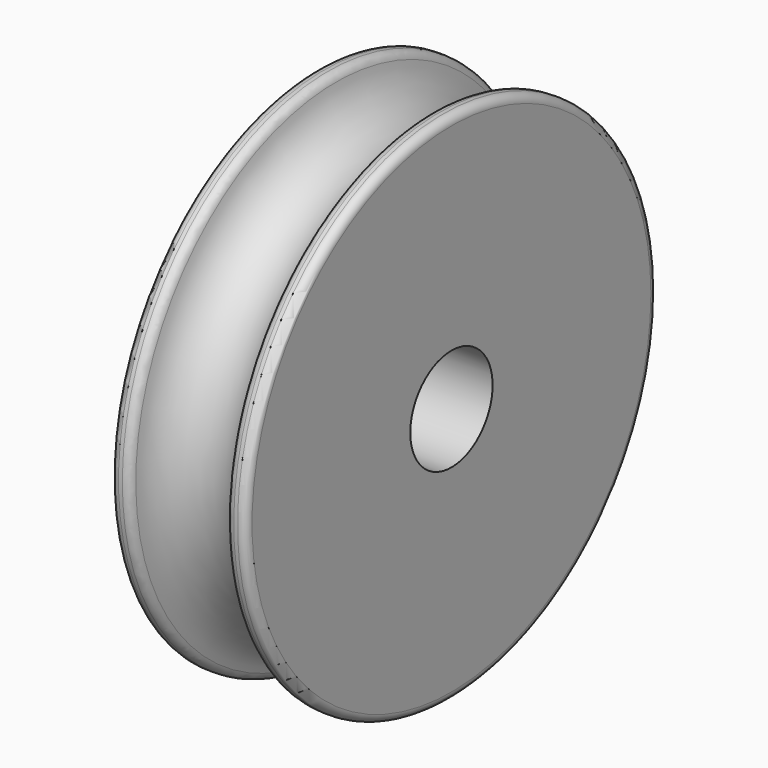
from build123d import *

# Parameters (mm, degrees)
SKETCH001_R  = 3.2
POCKET_DEPTH = 8.401
FILLET_R     = 0.5


with BuildPart() as part:
    # Sketch → Revolution (revolve)
    with BuildSketch(Plane.XY):
        with BuildLine():
            Line((-4.2, 16), (-3, 16))
            ThreePointArc((-3, 16), (0, 13), (3, 16))
            Line((3, 16), (4.2, 16))
            Line((4.2, 16), (4.2, 0))
            Line((4.2, 0), (-4.2, 0))
            Line((-4.2, 0), (-4.2, 16))
        make_face()
    revolve(axis=Axis((0, 0, 0), (1, 0, 0)))

    # Sketch001 → Pocket (cut, through all)
    with BuildSketch(Plane(origin=(-4.2, 0, 0), x_dir=(0, -1, 0), z_dir=(-1, 0, 0))):
        Circle(SKETCH001_R)
    extrude(amount=-POCKET_DEPTH, mode=Mode.SUBTRACT)

    # Fillet
    fillet_edges = [part.edges().sort_by_distance(p)[0] for p in [
        (-3, -16, 0),
        (3, -16, 0),
        (-4.2, -16, 0),
        (4.2, -16, 0),
    ]]
    fillet(fillet_edges, radius=FILLET_R)


solid = part.part
